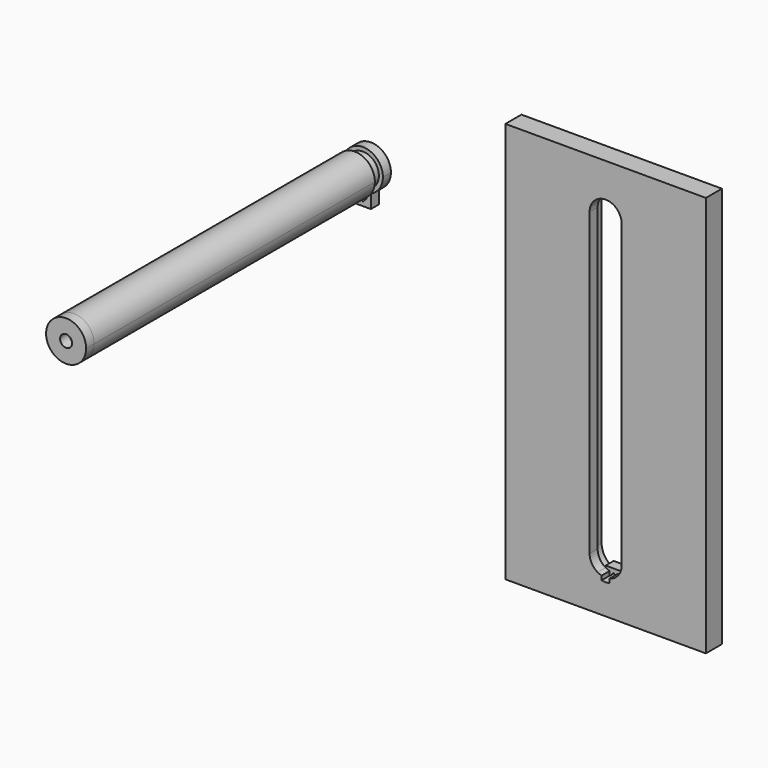
from build123d import *

# Parameters (mm, degrees)
F0_W      = 50
F0_H      = 100
F1_DEPTH  = 2.5
F2_DEPTH  = 2.5
F3_R      = 4
F4_DEPTH  = 2.5
F5_DEPTH  = 92.5
F7_START  = 5
F7_DEPTH  = 87.5
F8_D      = 3
F8_DEPTH  = 18.5
F8_TIP    = 0.9012909285
F9_START  = 92.5
F9_DEPTH  = 2.5
F11_D     = 3
F11_DEPTH = 18.5
F11_TIP   = 0.9012909285


with BuildPart() as f1:
    # F0 (on Front) → F1 (new body)
    with BuildSketch(Plane.XZ):
        Rectangle(F0_W, F0_H)
        with BuildLine():
            ThreePointArc((-5, 37.5), (0, 42.5), (5, 37.5))
            Line((5, 37.5), (5, -37.5))
            ThreePointArc((5, -37.5), (4.1833001327, -40.2386127875), (2, -42.082575695))
            Line((2, -42.082575695), (2, -42.5))
            Line((2, -42.5), (1, -42.5))
            Line((1, -42.5), (0, -42.5))
            Line((0, -42.5), (-1, -42.5))
            Line((-1, -42.5), (-2, -42.5))
            Line((-2, -42.5), (-2, -42.082575695))
            ThreePointArc((-2, -42.082575695), (-4.1833001327, -40.2386127875), (-5, -37.5))
            Line((-5, -37.5), (-5, 37.5))
        make_face(mode=Mode.SUBTRACT)
        with BuildLine():
            ThreePointArc((0, -42.5), (-0.4596848175, -42.4788241452), (-0.9154759474, -42.4154759474))
            Line((-0.9154759474, -42.4154759474), (-1, -42.5))
            Line((-1, -42.5), (0, -42.5))
        make_face()
        with BuildLine():
            ThreePointArc((-0.9154759474, -42.4154759474), (-0.9577734908, -42.4074096976), (-1, -42.3989794856))
            Line((-1, -42.3989794856), (-1, -42.5))
            Line((-1, -42.5), (-0.9154759474, -42.4154759474))
        make_face()
        with BuildLine():
            Line((1, -42.5), (1, -42.3989794856))
            ThreePointArc((1, -42.3989794856), (0.9577734908, -42.4074096976), (0.9154759474, -42.4154759474))
            Line((0.9154759474, -42.4154759474), (1, -42.5))
        make_face()
        with BuildLine():
            Line((1, -42.5), (0.9154759474, -42.4154759474))
            ThreePointArc((0.9154759474, -42.4154759474), (0.4596848175, -42.4788241452), (0, -42.5))
            Line((0, -42.5), (1, -42.5))
        make_face()
        with BuildLine():
            ThreePointArc((0.9154759474, -42.4154759474), (0.9577734908, -42.4074096976), (1, -42.3989794856))
            Line((1, -42.3989794856), (1, -41.3729833462))
            ThreePointArc((1, -41.3729833462), (0.5040171699, -41.4681187851), (0, -41.5))
            Line((0, -41.5), (0.9154759474, -42.4154759474))
        make_face()
        with BuildLine():
            ThreePointArc((0, -41.5), (0.5040171699, -41.4681187851), (1, -41.3729833462))
            Line((1, -41.3729833462), (1, -40.5))
            Line((1, -40.5), (0, -40.5))
            Line((0, -40.5), (0, -41.5))
        make_face()
        with BuildLine():
            Line((-1, -40.5), (-1, -41.3729833462))
            ThreePointArc((-1, -41.3729833462), (-0.5040171699, -41.4681187851), (0, -41.5))
            Line((0, -41.5), (0, -40.5))
            Line((0, -40.5), (-1, -40.5))
        make_face()
        with BuildLine():
            Line((-1, -41.3729833462), (-1, -42.3989794856))
            ThreePointArc((-1, -42.3989794856), (-0.9577734908, -42.4074096976), (-0.9154759474, -42.4154759474))
            Line((-0.9154759474, -42.4154759474), (0, -41.5))
            ThreePointArc((0, -41.5), (-0.5040171699, -41.4681187851), (-1, -41.3729833462))
        make_face()
        with BuildLine():
            Line((-2, -40.5), (-2, -40.9641016151))
            ThreePointArc((-2, -40.9641016151), (-1.5138679161, -41.2024591736), (-1, -41.3729833462))
            Line((-1, -41.3729833462), (-1, -40.5))
            Line((-1, -40.5), (-2, -40.5))
        make_face()
        with BuildLine():
            Line((-2, -40.9641016151), (-2, -42.082575695))
            ThreePointArc((-2, -42.082575695), (-1.5083195416, -42.2670716546), (-1, -42.3989794856))
            Line((-1, -42.3989794856), (-1, -41.3729833462))
            ThreePointArc((-1, -41.3729833462), (-1.5138679161, -41.2024591736), (-2, -40.9641016151))
        make_face()
        with BuildLine():
            ThreePointArc((-1, -42.3989794856), (-1.5083195416, -42.2670716546), (-2, -42.082575695))
            Line((-2, -42.082575695), (-2, -42.5))
            Line((-2, -42.5), (-1, -42.5))
            Line((-1, -42.5), (-1, -42.3989794856))
        make_face()
        with BuildLine():
            ThreePointArc((1, -41.3729833462), (1.5138679161, -41.2024591736), (2, -40.9641016151))
            Line((2, -40.9641016151), (2, -40.5))
            Line((2, -40.5), (1, -40.5))
            Line((1, -40.5), (1, -41.3729833462))
        make_face()
        with BuildLine():
            ThreePointArc((1, -42.3989794856), (1.5083195416, -42.2670716546), (2, -42.082575695))
            Line((2, -42.082575695), (2, -40.9641016151))
            ThreePointArc((2, -40.9641016151), (1.5138679161, -41.2024591736), (1, -41.3729833462))
            Line((1, -41.3729833462), (1, -42.3989794856))
        make_face()
        with BuildLine():
            Line((2, -42.5), (2, -42.082575695))
            ThreePointArc((2, -42.082575695), (1.5083195416, -42.2670716546), (1, -42.3989794856))
            Line((1, -42.3989794856), (1, -42.5))
            Line((1, -42.5), (2, -42.5))
        make_face()
    extrude(amount=-F1_DEPTH)

    # F0 (on Front) → F2 (join)
    with BuildSketch(Plane.XZ):
        Rectangle(F0_W, F0_H)
        with BuildLine():
            ThreePointArc((-5, 37.5), (0, 42.5), (5, 37.5))
            Line((5, 37.5), (5, -37.5))
            ThreePointArc((5, -37.5), (4.1833001327, -40.2386127875), (2, -42.082575695))
            Line((2, -42.082575695), (2, -42.5))
            Line((2, -42.5), (1, -42.5))
            Line((1, -42.5), (0, -42.5))
            Line((0, -42.5), (-1, -42.5))
            Line((-1, -42.5), (-2, -42.5))
            Line((-2, -42.5), (-2, -42.082575695))
            ThreePointArc((-2, -42.082575695), (-4.1833001327, -40.2386127875), (-5, -37.5))
            Line((-5, -37.5), (-5, 37.5))
        make_face(mode=Mode.SUBTRACT)
        with BuildLine():
            Line((5, -37.5), (5, 37.5))
            ThreePointArc((5, 37.5), (0, 42.5), (-5, 37.5))
            Line((-5, 37.5), (-5, -37.5))
            ThreePointArc((-5, -37.5), (-4.1833001327, -40.2386127875), (-2, -42.082575695))
            Line((-2, -42.082575695), (-2, -40.9641016151))
            ThreePointArc((-2, -40.9641016151), (-3.4641016151, -39.5), (-4, -37.5))
            Line((-4, -37.5), (-4, 37.5))
            ThreePointArc((-4, 37.5), (0, 41.5), (4, 37.5))
            Line((4, 37.5), (4, -37.5))
            ThreePointArc((4, -37.5), (3.4641016151, -39.5), (2, -40.9641016151))
            Line((2, -40.9641016151), (2, -42.082575695))
            ThreePointArc((2, -42.082575695), (4.1833001327, -40.2386127875), (5, -37.5))
        make_face()
        with BuildLine():
            Line((-2, -40.9641016151), (-2, -42.082575695))
            ThreePointArc((-2, -42.082575695), (-1.5083195416, -42.2670716546), (-1, -42.3989794856))
            Line((-1, -42.3989794856), (-1, -41.3729833462))
            ThreePointArc((-1, -41.3729833462), (-1.5138679161, -41.2024591736), (-2, -40.9641016151))
        make_face()
        with BuildLine():
            ThreePointArc((1, -42.3989794856), (1.5083195416, -42.2670716546), (2, -42.082575695))
            Line((2, -42.082575695), (2, -40.9641016151))
            ThreePointArc((2, -40.9641016151), (1.5138679161, -41.2024591736), (1, -41.3729833462))
            Line((1, -41.3729833462), (1, -42.3989794856))
        make_face()
        with BuildLine():
            Line((2, -42.5), (2, -42.082575695))
            ThreePointArc((2, -42.082575695), (1.5083195416, -42.2670716546), (1, -42.3989794856))
            Line((1, -42.3989794856), (1, -42.5))
            Line((1, -42.5), (2, -42.5))
        make_face()
        with BuildLine():
            ThreePointArc((-1, -42.3989794856), (-1.5083195416, -42.2670716546), (-2, -42.082575695))
            Line((-2, -42.082575695), (-2, -42.5))
            Line((-2, -42.5), (-1, -42.5))
            Line((-1, -42.5), (-1, -42.3989794856))
        make_face()
        with BuildLine():
            ThreePointArc((-0.9154759474, -42.4154759474), (-0.9577734908, -42.4074096976), (-1, -42.3989794856))
            Line((-1, -42.3989794856), (-1, -42.5))
            Line((-1, -42.5), (-0.9154759474, -42.4154759474))
        make_face()
        with BuildLine():
            ThreePointArc((0, -42.5), (-0.4596848175, -42.4788241452), (-0.9154759474, -42.4154759474))
            Line((-0.9154759474, -42.4154759474), (-1, -42.5))
            Line((-1, -42.5), (0, -42.5))
        make_face()
        with BuildLine():
            Line((1, -42.5), (1, -42.3989794856))
            ThreePointArc((1, -42.3989794856), (0.9577734908, -42.4074096976), (0.9154759474, -42.4154759474))
            Line((0.9154759474, -42.4154759474), (1, -42.5))
        make_face()
        with BuildLine():
            Line((1, -42.5), (0.9154759474, -42.4154759474))
            ThreePointArc((0.9154759474, -42.4154759474), (0.4596848175, -42.4788241452), (0, -42.5))
            Line((0, -42.5), (1, -42.5))
        make_face()
    extrude(amount=F2_DEPTH)


with BuildPart() as f4:
    # F3 (on Front) → F4 (new body)
    with BuildSketch(Plane.XZ):
        with BuildLine():
            ThreePointArc((-58.5494586527, 23.7888430792), (-56.3661585201, 25.6328059866), (-55.5494586527, 28.3714187741))
            ThreePointArc((-55.5494586527, 28.3714187741), (-63.2880714403, 32.5547189068), (-62.5494586527, 23.7888430792))
            ThreePointArc((-62.5494586527, 23.7888430792), (-62.0577781944, 23.6043471195), (-61.5494586527, 23.4724392886))
            ThreePointArc((-61.5494586527, 23.4724392886), (-61.0520034628, 23.3967380091), (-60.5494586527, 23.3714187741))
            ThreePointArc((-60.5494586527, 23.3714187741), (-60.0469138427, 23.3967380091), (-59.5494586527, 23.4724392886))
            ThreePointArc((-59.5494586527, 23.4724392886), (-59.0411391111, 23.6043471195), (-58.5494586527, 23.7888430792))
        make_face()
        with Locations((-60.5494586527, 28.3714187741)):
            Circle(F3_R, mode=Mode.SUBTRACT)
        with BuildLine():
            ThreePointArc((-61.5494586527, 23.4724392886), (-62.0577781944, 23.6043471195), (-62.5494586527, 23.7888430792))
            Line((-62.5494586527, 23.7888430792), (-62.5494586527, 21.3714187741))
            Line((-62.5494586527, 21.3714187741), (-61.5494586527, 21.3714187741))
            Line((-61.5494586527, 21.3714187741), (-61.5494586527, 22.3714187741))
            Line((-61.5494586527, 22.3714187741), (-61.5494586527, 23.4724392886))
        make_face()
        with BuildLine():
            Line((-58.5494586527, 21.3714187741), (-58.5494586527, 23.7888430792))
            ThreePointArc((-58.5494586527, 23.7888430792), (-59.0411391111, 23.6043471195), (-59.5494586527, 23.4724392886))
            Line((-59.5494586527, 23.4724392886), (-59.5494586527, 22.3714187741))
            Line((-59.5494586527, 22.3714187741), (-59.5494586527, 21.3714187741))
            Line((-59.5494586527, 21.3714187741), (-58.5494586527, 21.3714187741))
        make_face()
        Polygon((-61.5494586527, 21.3714187741), (-62.5494586527, 21.3714187741), (-62.5494586527, 20.3714187741), (-58.5494586527, 20.3714187741), (-58.5494586527, 21.3714187741), (-59.5494586527, 21.3714187741), (-60.5494586527, 21.3714187741), align=None)
        Polygon((-60.5494586527, 21.3714187741), (-61.5494586527, 22.3714187741), (-61.5494586527, 21.3714187741), align=None)
        with BuildLine():
            ThreePointArc((-60.5494586527, 23.3714187741), (-61.0520034628, 23.3967380091), (-61.5494586527, 23.4724392886))
            Line((-61.5494586527, 23.4724392886), (-61.5494586527, 22.3714187741))
            Line((-61.5494586527, 22.3714187741), (-60.5494586527, 23.3714187741))
        make_face()
        with BuildLine():
            Line((-59.5494586527, 22.3714187741), (-59.5494586527, 23.4724392886))
            ThreePointArc((-59.5494586527, 23.4724392886), (-60.0469138427, 23.3967380091), (-60.5494586527, 23.3714187741))
            Line((-60.5494586527, 23.3714187741), (-59.5494586527, 22.3714187741))
        make_face()
        Polygon((-59.5494586527, 21.3714187741), (-59.5494586527, 22.3714187741), (-60.5494586527, 21.3714187741), align=None)
    extrude(amount=F4_DEPTH)

    # F3 (on Front) → F5 (join)
    with BuildSketch(Plane.XZ):
        with Locations((-60.5494586527, 28.3714187741)):
            Circle(F3_R)
    extrude(amount=F5_DEPTH)

    # F8
    with Locations(Plane.XZ.offset(92.5)):
        with Locations((-60.5494586527, 28.3714187741)):
            Hole(F8_D / 2, depth=F8_DEPTH)
            with Locations((0, 0, -(F8_DEPTH + F8_TIP / 2))):  # 118° drill point
                Cone(0, F8_D / 2, F8_TIP, mode=Mode.SUBTRACT)


with BuildPart() as f7:
    # F3 (on Front) → F7 (new body)
    with BuildSketch(Plane.XZ.offset(F7_START)):
        with BuildLine():
            ThreePointArc((-58.5494586527, 23.7888430792), (-56.3661585201, 25.6328059866), (-55.5494586527, 28.3714187741))
            ThreePointArc((-55.5494586527, 28.3714187741), (-63.2880714403, 32.5547189068), (-62.5494586527, 23.7888430792))
            ThreePointArc((-62.5494586527, 23.7888430792), (-62.0577781944, 23.6043471195), (-61.5494586527, 23.4724392886))
            ThreePointArc((-61.5494586527, 23.4724392886), (-61.0520034628, 23.3967380091), (-60.5494586527, 23.3714187741))
            ThreePointArc((-60.5494586527, 23.3714187741), (-60.0469138427, 23.3967380091), (-59.5494586527, 23.4724392886))
            ThreePointArc((-59.5494586527, 23.4724392886), (-59.0411391111, 23.6043471195), (-58.5494586527, 23.7888430792))
        make_face()
        with Locations((-60.5494586527, 28.3714187741)):
            Circle(F3_R, mode=Mode.SUBTRACT)
    extrude(amount=F7_DEPTH)


with BuildPart() as f9:
    # F3 (on Front) → F9 (new body)
    with BuildSketch(Plane.XZ.offset(F9_START)):
        with BuildLine():
            ThreePointArc((-58.5494586527, 23.7888430792), (-56.3661585201, 25.6328059866), (-55.5494586527, 28.3714187741))
            ThreePointArc((-55.5494586527, 28.3714187741), (-63.2880714403, 32.5547189068), (-62.5494586527, 23.7888430792))
            ThreePointArc((-62.5494586527, 23.7888430792), (-62.0577781944, 23.6043471195), (-61.5494586527, 23.4724392886))
            ThreePointArc((-61.5494586527, 23.4724392886), (-61.0520034628, 23.3967380091), (-60.5494586527, 23.3714187741))
            ThreePointArc((-60.5494586527, 23.3714187741), (-60.0469138427, 23.3967380091), (-59.5494586527, 23.4724392886))
            ThreePointArc((-59.5494586527, 23.4724392886), (-59.0411391111, 23.6043471195), (-58.5494586527, 23.7888430792))
        make_face()
        with Locations((-60.5494586527, 28.3714187741)):
            Circle(F3_R, mode=Mode.SUBTRACT)
        with Locations((-60.5494586527, 28.3714187741)):
            Circle(F3_R)
    extrude(amount=F9_DEPTH)

    # F11
    with Locations(Plane.XZ.offset(95)):
        with Locations((-60.5494586527, 28.3714187741)):
            Hole(F11_D / 2, depth=F11_DEPTH)
            with Locations((0, 0, -(F11_DEPTH + F11_TIP / 2))):  # 118° drill point
                Cone(0, F11_D / 2, F11_TIP, mode=Mode.SUBTRACT)


solid = Compound([f1.part, f4.part, f7.part, f9.part])
